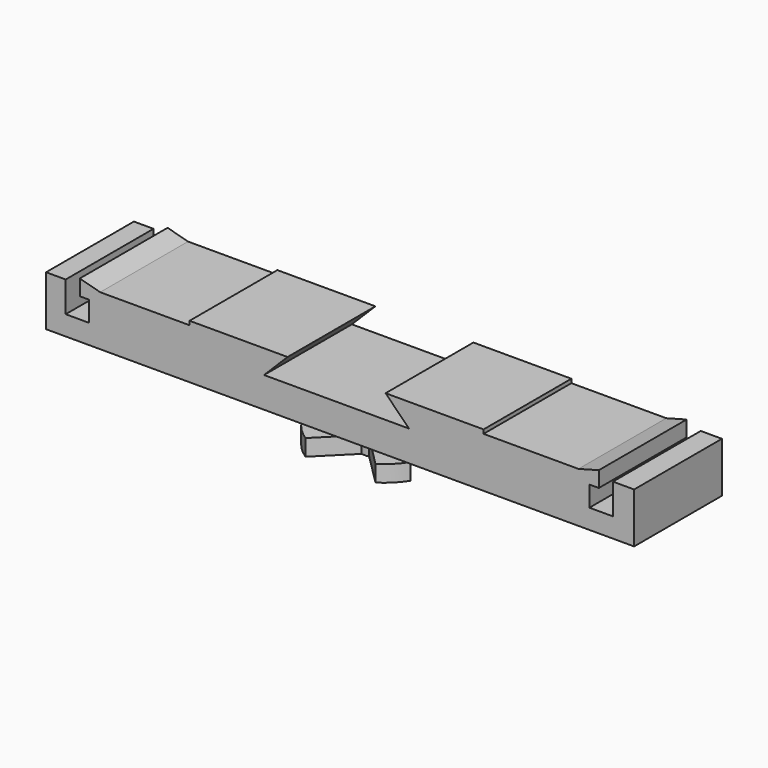
from build123d import *

# Parameters (mm, degrees)
F1_DEPTH = 7
F3_DEPTH = 3.6
F4_START = 1.5
F4_DEPTH = 2.1


with BuildPart() as f1:
    # F0 (on Front) → F1 (new body, symmetric)
    with BuildSketch(Plane.XZ):
        Polygon((-75, 0), (0, 0), (0, 6.4), (-2.7, 6.4), (-2.7, 2.5), (-5.7, 2.5), (-5.7, 5.1), (-4.5, 5.1), (-4.5, 6.4), (-4.5, 7.1), (-7.1, 6.4), (-19.2, 6.4), (-19.2, 6.9), (-31.7, 6.9), (-31.2, 6.4), (-28.7, 3.9), (-47.2, 3.9), (-44.7, 6.4), (-44.2, 6.9), (-56.7, 6.9), (-56.7, 6.4), (-68.1, 6.4), (-70.7, 7.1), (-70.7, 6.4), (-70.7, 5.1), (-69.5, 5.1), (-69.5, 2.5), (-72.5, 2.5), (-72.5, 6.4), (-75, 6.4), align=None)
    extrude(amount=F1_DEPTH, both=True)

    # F2 (on face) → F3 (join)
    with BuildSketch(Plane(origin=(0, 0, 0), x_dir=(1, 0, 0), z_dir=(0, 0, -1))):
        with BuildLine():
            ThreePointArc((-34.5395570389, -0.4855692269), (-34.5099056133, -0.2435889127), (-34.5, 0))
            ThreePointArc((-34.5, 0), (-34.5099056133, 0.2435889127), (-34.5395570389, 0.4855692269))
            ThreePointArc((-34.5395570389, 0.4855692269), (-35.3786796564, 2.1213203436), (-37.0144307731, 2.9604429611))
            ThreePointArc((-37.0144307731, 2.9604429611), (-37.5, 3), (-37.9855692269, 2.9604429611))
            ThreePointArc((-37.9855692269, 2.9604429611), (-39.6213203436, 2.1213203436), (-40.4604429611, 0.4855692269))
            ThreePointArc((-40.4604429611, 0.4855692269), (-40.5, 0), (-40.4604429611, -0.4855692269))
            ThreePointArc((-40.4604429611, -0.4855692269), (-39.6213203436, -2.1213203436), (-37.9855692269, -2.9604429611))
            ThreePointArc((-37.9855692269, -2.9604429611), (-37.5, -3), (-37.0144307731, -2.9604429611))
            ThreePointArc((-37.0144307731, -2.9604429611), (-35.3786796564, -2.1213203436), (-34.5395570389, -0.4855692269))
        make_face()
    extrude(amount=F3_DEPTH)

    # F2 (on face) → F4 (join)
    with BuildSketch(Plane(origin=(0, 0, 0), x_dir=(1, 0, 0), z_dir=(0, 0, -1)).offset(F4_START)):
        with BuildLine():
            ThreePointArc((-40.4604429611, 0.4855692269), (-39.6213203436, 2.1213203436), (-37.9855692269, 2.9604429611))
            Line((-37.9855692269, 2.9604429611), (-41.9634402584, 6.9383139926))
            ThreePointArc((-41.9634402584, 6.9383139926), (-43.3336309448, 5.8336309448), (-44.4383139926, 4.4634402584))
            Line((-44.4383139926, 4.4634402584), (-40.4604429611, 0.4855692269))
        make_face()
        with BuildLine():
            ThreePointArc((-37.0144307731, 2.9604429611), (-35.3786796564, 2.1213203436), (-34.5395570389, 0.4855692269))
            Line((-34.5395570389, 0.4855692269), (-30.5616860074, 4.4634402584))
            ThreePointArc((-30.5616860074, 4.4634402584), (-31.6663690552, 5.8336309448), (-33.0365597416, 6.9383139926))
            Line((-33.0365597416, 6.9383139926), (-37.0144307731, 2.9604429611))
        make_face()
        with BuildLine():
            Line((-41.9634402584, -6.9383139926), (-37.9855692269, -2.9604429611))
            ThreePointArc((-37.9855692269, -2.9604429611), (-39.6213203436, -2.1213203436), (-40.4604429611, -0.4855692269))
            Line((-40.4604429611, -0.4855692269), (-44.4383139926, -4.4634402584))
            ThreePointArc((-44.4383139926, -4.4634402584), (-43.3336309448, -5.8336309448), (-41.9634402584, -6.9383139926))
        make_face()
        with BuildLine():
            Line((-30.5616860074, -4.4634402584), (-34.5395570389, -0.4855692269))
            ThreePointArc((-34.5395570389, -0.4855692269), (-35.3786796564, -2.1213203436), (-37.0144307731, -2.9604429611))
            Line((-37.0144307731, -2.9604429611), (-33.0365597416, -6.9383139926))
            ThreePointArc((-33.0365597416, -6.9383139926), (-31.6663690552, -5.8336309448), (-30.5616860074, -4.4634402584))
        make_face()
    extrude(amount=F4_DEPTH)


solid = f1.part
